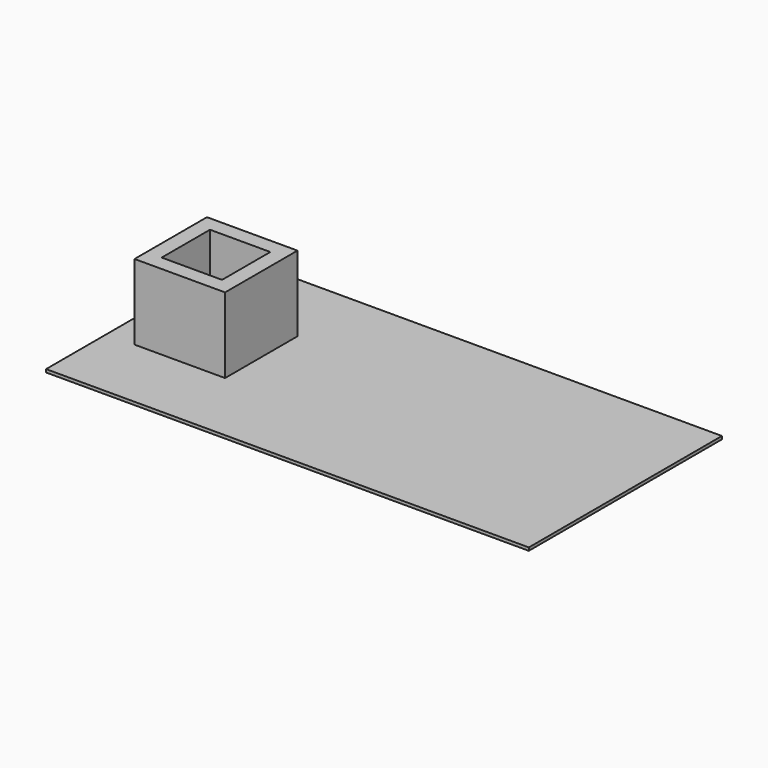
from build123d import *

# Parameters (mm, degrees)
F0_W     = 160
F0_H     = 80
F1_DEPTH = 1
F2_W     = 30
F2_H     = 30
F3_DEPTH = 25
F4_W     = 20
F4_H     = 20
F5_DEPTH = 25


with BuildPart() as f1:
    # F0 (on Top) → F1 (new body)
    with BuildSketch(Plane.XY):
        Rectangle(F0_W, F0_H)
    extrude(amount=F1_DEPTH)

    # F2 (on face) → F3 (join)
    with BuildSketch(Plane.XY.offset(1)):
        with Locations((-55.679019, 0)):
            Rectangle(F2_W, F2_H)
    extrude(amount=F3_DEPTH)

    # F4 (on face) → F5 (cut)
    with BuildSketch(Plane.XY.offset(26)):
        with Locations((-55.679019, 0)):
            Rectangle(F4_W, F4_H)
    extrude(amount=-F5_DEPTH, mode=Mode.SUBTRACT)


solid = f1.part
